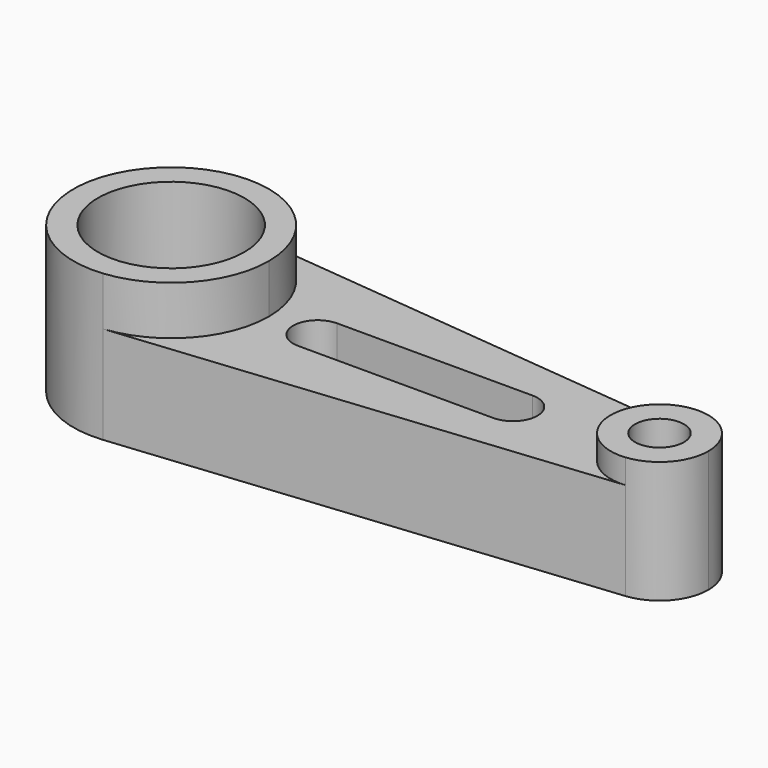
from build123d import *

# Parameters (mm, degrees)
F0_R     = 19.05
F1_DEPTH = 38.1
F2_DEPTH = 25.4
F0_R_2   = 6.35
F3_DEPTH = 31.75


with BuildPart() as f1:
    # F0 (on Top) → F1 (new body)
    with BuildSketch(Plane.XY):
        with BuildLine():
            ThreePointArc((-12.7, 0), (-19.262856, 17.038838), (-35.56, 25.272681))
            ThreePointArc((-35.56, 25.272681), (-63.5, 0), (-35.56, -25.272681))
            ThreePointArc((-35.56, -25.272681), (-19.262856, -17.038838), (-12.7, 0))
        make_face()
        with Locations((-38.1, 0)):
            Circle(F0_R, mode=Mode.SUBTRACT)
    extrude(amount=F1_DEPTH)

    # F0 (on Top) → F2 (join)
    with BuildSketch(Plane.XY):
        with BuildLine():
            ThreePointArc((90.17, -12.63634), (76.2, 0), (90.17, 12.63634))
            Line((90.17, 12.63634), (-35.56, 25.272681))
            ThreePointArc((-35.56, 25.272681), (-19.262856, 17.038838), (-12.7, 0))
            ThreePointArc((-12.7, 0), (-19.262856, -17.038838), (-35.56, -25.272681))
            Line((-35.56, -25.272681), (90.17, -12.63634))
        make_face()
        with BuildLine():
            ThreePointArc((0, -6.35), (-6.35, 0), (0, 6.35))
            Line((0, 6.35), (50.8, 6.35))
            ThreePointArc((50.8, 6.35), (57.15, 0), (50.8, -6.35))
            Line((50.8, -6.35), (0, -6.35))
        make_face(mode=Mode.SUBTRACT)
    extrude(amount=F2_DEPTH)

    # F0 (on Top) → F3 (join)
    with BuildSketch(Plane.XY):
        with BuildLine():
            ThreePointArc((90.17, -12.63634), (98.318572, -8.519419), (101.6, 0))
            ThreePointArc((101.6, 0), (98.318572, 8.519419), (90.17, 12.63634))
            ThreePointArc((90.17, 12.63634), (76.2, 0), (90.17, -12.63634))
        make_face()
        with Locations((88.9, 0)):
            Circle(F0_R_2, mode=Mode.SUBTRACT)
    extrude(amount=F3_DEPTH)


solid = f1.part
